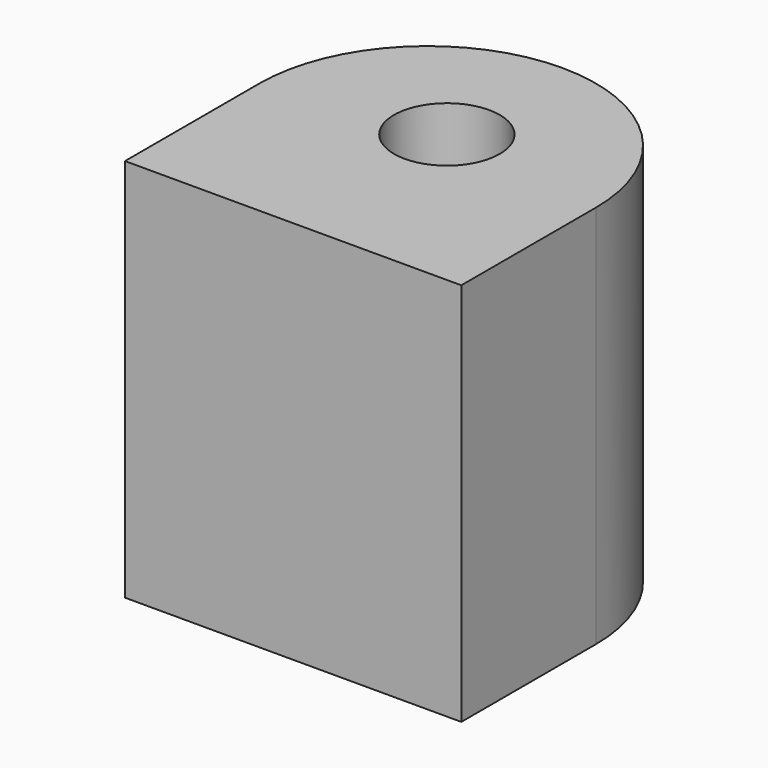
from build123d import *

# Parameters (mm, degrees)
PAD_DEPTH   = 40
SKETCH001_R = 5.5
HOLE_DEPTH  = 40.001


with BuildPart() as part:
    # Sketch → Pad (new body)
    with BuildSketch(Plane.XY):
        with BuildLine():
            Line((-17.5, 0), (-17.5, -17.5))
            Line((-17.5, -17.5), (17.5, -17.5))
            Line((17.5, -17.5), (17.5, 0))
            ThreePointArc((17.5, 0), (0, 17.5), (-17.5, 0))
        make_face()
    extrude(amount=PAD_DEPTH)

    # Sketch001 (on Face6 of Pad) → Hole (cut, through all)
    with BuildSketch(Plane.XY.offset(40)):
        with Locations((0, 2.5)):
            Circle(SKETCH001_R)
    extrude(amount=-HOLE_DEPTH, mode=Mode.SUBTRACT)


solid = part.part
